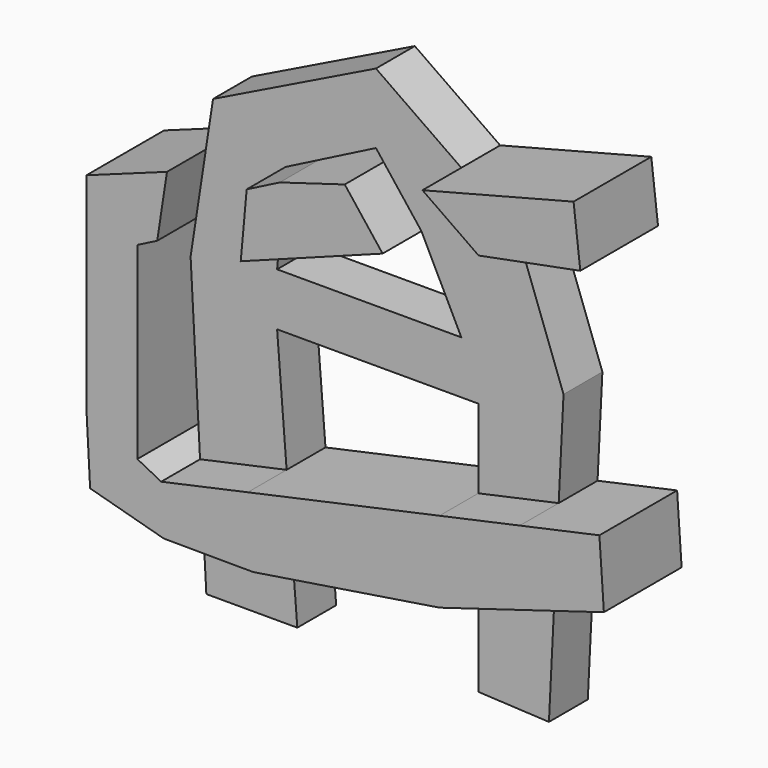
from build123d import *

# Parameters (mm, degrees)
F1_DEPTH = 25.4
F2_DEPTH = 12.7


with BuildPart() as f1:
    # F0 (on Front) → F1 (new body)
    with BuildSketch(Plane.XZ):
        Polygon((-52.223038, 6.606058), (-47.036587, 9.248163), (-44.466347, 25.954724), (-65.545018, 18.306712), (-65.545018, -35.333227), (-64.570178, -53.437405), (-45.297006, -58.729837), (-21.942178, -58.833978), (26.771875, -51.19266), (46.796787, -45.172647), (49.848274, -44.25529), (69.757149, -38.270161), (68.582371, -20.94226), (47.778299, -25.466913), (26.771875, -30.035576), (-23.355048, -40.937622), (-45.989972, -45.860466), (-52.223038, -42.675558), (-52.223038, -34.745838), (-52.223038, -17.417941), align=None)
        Polygon((-23.6373, 28.691895), (-25.187504, 11.638421), (11.899579, 25.46127), (2.004566, 38.160638), (-14.989507, 33.097294), align=None)
        Polygon((61.827425, 53.655818), (22.320686, 43.443285), (37.005346, 33.187333), (63.589588, 38.315309), align=None)
    extrude(amount=F1_DEPTH)


with BuildPart() as f2:
    # F0 (on Front) → F2 (new body)
    with BuildSketch(Plane.XZ):
        Polygon((-47.036587, 9.248163), (-48.459381, 0), (-45.989972, -45.860466), (-23.355048, -40.937622), (-25.845004, -9.398188), (26.771875, -9.398188), (26.771875, -30.035576), (47.778299, -25.466913), (49.046766, 0), (37.005346, 33.187333), (22.320686, 43.443285), (0, 59.032332), (-42.585518, 38.180113), (-44.466347, 25.954724), align=None)
        Polygon((22.320686, 4.405395), (-25.845004, 4.405395), (-25.187504, 11.638421), (-23.6373, 28.691895), (-14.989507, 33.097294), (0, 40.733319), (2.004566, 38.160638), (11.899579, 25.46127), align=None, mode=Mode.SUBTRACT)
        Polygon((46.796787, -45.172647), (26.771875, -51.19266), (26.771875, -75.734627), (45.228753, -76.653935), align=None)
        Polygon((-21.942178, -58.833978), (-45.297006, -58.729837), (-44.347677, -76.360241), (-20.558525, -76.360241), align=None)
    extrude(amount=F2_DEPTH)


solid = Compound([f1.part, f2.part])
